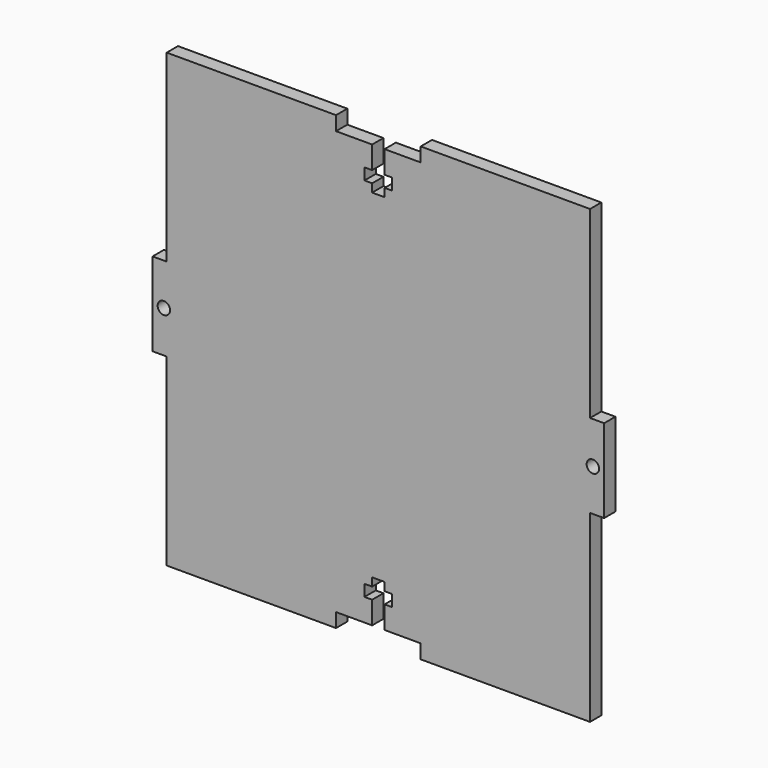
from build123d import *

# Parameters (mm, degrees)
F0_R     = 1.4
F1_DEPTH = 3.175


with BuildPart() as f1:
    # F0 (on Front) → F1 (new body)
    with BuildSketch(Plane.XZ):
        Polygon((9.525, -50.8), (47.625, -50.8), (47.625, -9.398), (50.8, -9.398), (50.8, 9.398), (47.625, 9.398), (47.625, 50.8), (9.525, 50.8), (9.525, 47.625), (1.4, 47.625), (1.4, 42.545), (3.125, 42.545), (3.125, 39.945), (1.4, 39.945), (1.4, 38.1), (-1.4, 38.1), (-1.4, 39.945), (-3.125, 39.945), (-3.125, 42.545), (-1.4, 42.545), (-1.4, 47.625), (-9.525, 47.625), (-9.525, 50.8), (-47.625, 50.8), (-47.625, 9.398), (-50.8, 9.398), (-50.8, -9.398), (-47.625, -9.398), (-47.625, -50.8), (-9.525, -50.8), (-9.525, -47.625), (-1.4, -47.625), (-1.4, -42.545), (-3.125, -42.545), (-3.125, -39.945), (-1.4, -39.945), (-1.4, -38.1), (1.4, -38.1), (1.4, -39.945), (3.125, -39.945), (3.125, -42.545), (1.4, -42.545), (1.4, -47.625), (9.525, -47.625), align=None)
        with Locations((-48.263, 0)):
            Circle(F0_R, mode=Mode.SUBTRACT)
        with Locations((48.263, 0)):
            Circle(F0_R, mode=Mode.SUBTRACT)
    extrude(amount=F1_DEPTH)


solid = f1.part
